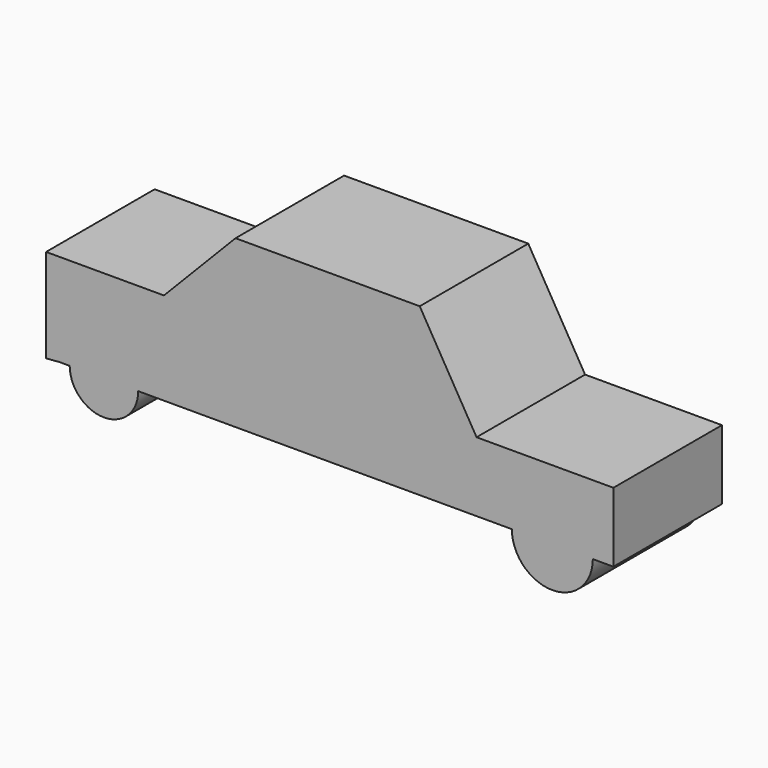
from build123d import *

# Parameters (mm, degrees)
F1_DEPTH = 25.4


with BuildPart() as f1:
    # F0 (on Front) → F1 (new body)
    with BuildSketch(Plane.XZ):
        with BuildLine():
            ThreePointArc((26.2159302875, -25.3233611584), (33.7973274291, -17.7419640168), (41.3787245706, -25.3233611584))
            Line((41.3787245706, -25.3233611584), (45.227330178, -25.3233611584))
            Line((45.227330178, -25.3233611584), (45.227330178, -12.3168108985))
            Line((45.227330178, -12.3168108985), (19.6083635092, -12.3168108985))
            Line((19.6083635092, -12.3168108985), (8.9666387066, 5.8135343716))
            Line((8.9666387066, 5.8135343716), (-25.5204308778, 5.8135343716))
            Line((-25.5204308778, 5.8135343716), (-38.9211215079, -7.9812929034))
            Line((-38.9211215079, -7.9812929034), (-60.9928481281, -16.7508628219))
            Line((-60.9928481281, -16.7508628219), (-60.9928481281, -25.5204327404))
            Line((-60.9928481281, -25.5204327404), (-58.4309473634, -25.3233611584))
            Line((-58.4309473634, -25.3233611584), (-56.5701552345, -25.3233611584))
            ThreePointArc((-56.5701552345, -25.3233611584), (-50.1540526748, -18.9072585986), (-43.737950115, -25.3233611584))
            Line((-43.737950115, -25.3233611584), (26.2159302875, -25.3233611584))
        make_face()
        with BuildLine():
            ThreePointArc((26.2159302875, -25.3233611584), (33.7973274291, -32.9047582999), (41.3787245706, -25.3233611584))
            Line((41.3787245706, -25.3233611584), (26.2159302875, -25.3233611584))
        make_face()
        with BuildLine():
            Line((26.2159302875, -25.3233611584), (41.3787245706, -25.3233611584))
            ThreePointArc((41.3787245706, -25.3233611584), (33.7973274291, -17.7419640168), (26.2159302875, -25.3233611584))
        make_face()
        with BuildLine():
            ThreePointArc((-56.5701552345, -25.3233611584), (-50.1540526748, -31.7394637181), (-43.737950115, -25.3233611584))
            Line((-43.737950115, -25.3233611584), (-56.5701552345, -25.3233611584))
        make_face()
        with BuildLine():
            Line((-56.5701552345, -25.3233611584), (-43.737950115, -25.3233611584))
            ThreePointArc((-43.737950115, -25.3233611584), (-50.1540526748, -18.9072585986), (-56.5701552345, -25.3233611584))
        make_face()
        Polygon((-60.9928481281, -16.7508628219), (-38.9211215079, -7.9812929034), (-60.9928481281, -7.9812929034), align=None)
    extrude(amount=F1_DEPTH)


solid = f1.part
